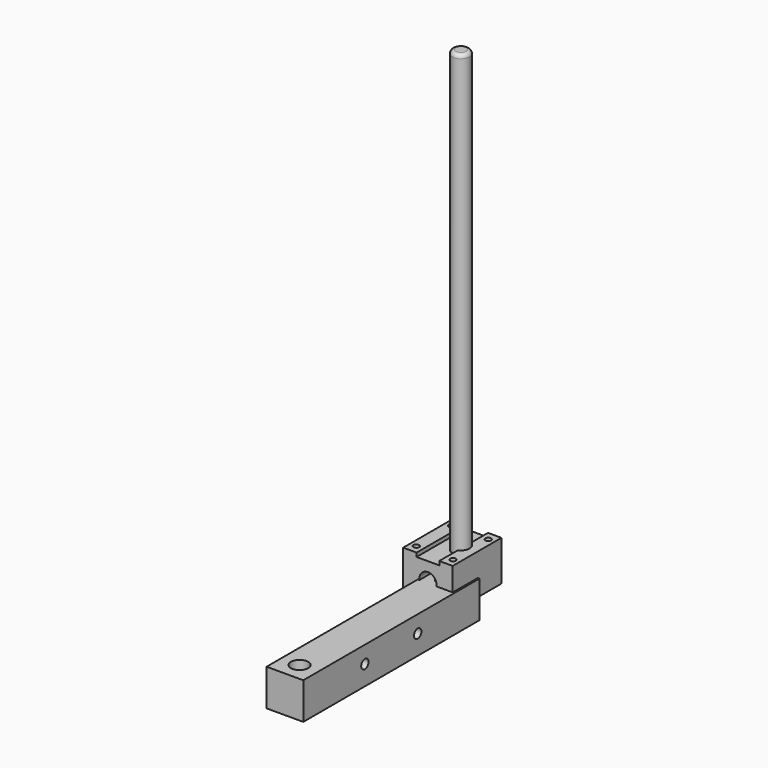
from build123d import *

# Parameters (mm, degrees)
F0_R      = 6
F1_DEPTH  = 330.2
F2_R      = 2.54
F3_W      = 25.4
F3_H      = 25.4
F4_DEPTH  = 152.4
F6_D      = 12
F8_D      = 6.35
F9_W      = 34.29
F9_H      = 42.164
F10_DEPTH = 27.94
F12_D     = 4
F14_D     = 12
F15_DEPTH = 42.164


with BuildPart() as f1:
    # F0 (on Top) → F1 (new body)
    with BuildSketch(Plane.XY):
        Circle(F0_R)
    extrude(amount=F1_DEPTH)

    # F2
    f2_edges = [f1.edges().sort_by_distance(p)[0] for p in [
        (-6, 0, 330.2),
        (-6, 0, 0),
    ]]
    fillet(f2_edges, radius=F2_R)


with BuildPart() as f4:
    # F3 (on Front) → F4 (new body)
    with BuildSketch(Plane.XZ):
        with Locations((0.0521343541, -0.9000794962)):
            Rectangle(F3_W, F3_H)
    extrude(amount=F4_DEPTH)

    # F6 (through all)
    with Locations(Plane(origin=(0, 0, -13.6000794962), x_dir=(1, 0, 0), z_dir=(0, 0, -1))):
        with Locations((0, 139.7), (0, 12.7)):
            Hole(F6_D / 2)

    # F8 (through all)
    with Locations(Plane.YZ.offset(12.7521343541)):
        with Locations((-99.06, 0), (-53.34, 0)):
            Hole(F8_D / 2)


with BuildPart() as f10:
    # F9 (on Top) → F10 (new body)
    with BuildSketch(Plane.XY):
        with Locations((-5.5661106151, -0.5026115105)):
            Rectangle(F9_W, F9_H)
    extrude(amount=F10_DEPTH)

    # F12 (through all)
    with Locations(Plane.XY.offset(27.94)):
        with Locations((-18.2661106151, 14.7373884895), (-18.2661106151, -15.7426115105), (7.1338893849, -15.7426115105), (7.1338893849, 14.7373884895)):
            Hole(F12_D / 2)

    # F14 (through all)
    with Locations(Plane.XZ.offset(21.5846115105)):
        with Locations((-5.5661106151, 12.5984)):
            Hole(F14_D / 2)

    # F13 (on face) → F15 (cut, through all)
    with BuildSketch(Plane.XZ.offset(21.5846115105)):
        Polygon((2.294197186, 27.94), (-5.5661106151, 27.94), (-13.4264184162, 27.94), (-13.4264184162, 25.2618864179), (-5.5661106151, 25.2618864179), (2.294197186, 25.2618864179), align=None)
    extrude(amount=-F15_DEPTH, mode=Mode.SUBTRACT)


solid = Compound([f1.part, f4.part, f10.part])
